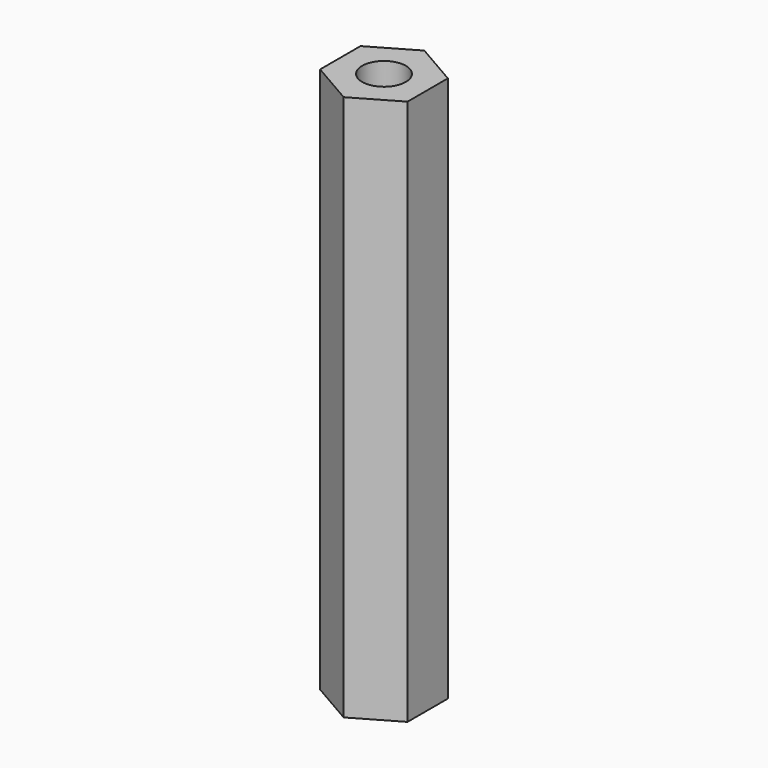
from build123d import *

# Parameters (mm, degrees)
PAD_DEPTH    = 25
SKETCH001_R  = 2
POCKET_DEPTH = 6


with BuildPart() as part:
    # Sketch → Pad (new body, symmetric)
    with BuildSketch(Plane.XY):
        Polygon((0, -4.618802), (4, -2.309401), (4, 2.309401), (0, 4.618802), (-4, 2.309401), (-4, -2.309401), align=None)
    extrude(amount=PAD_DEPTH, both=True)

    # Sketch001 (on Face8 of Pad) → Pocket (cut)
    with BuildSketch(Plane.XY.offset(25)):
        Circle(SKETCH001_R)
    pocket = extrude(amount=-POCKET_DEPTH, mode=Mode.SUBTRACT)

    # Mirrored: Pocket across XY
    add(pocket.mirror(Plane.XY), mode=Mode.SUBTRACT)


solid = part.part
